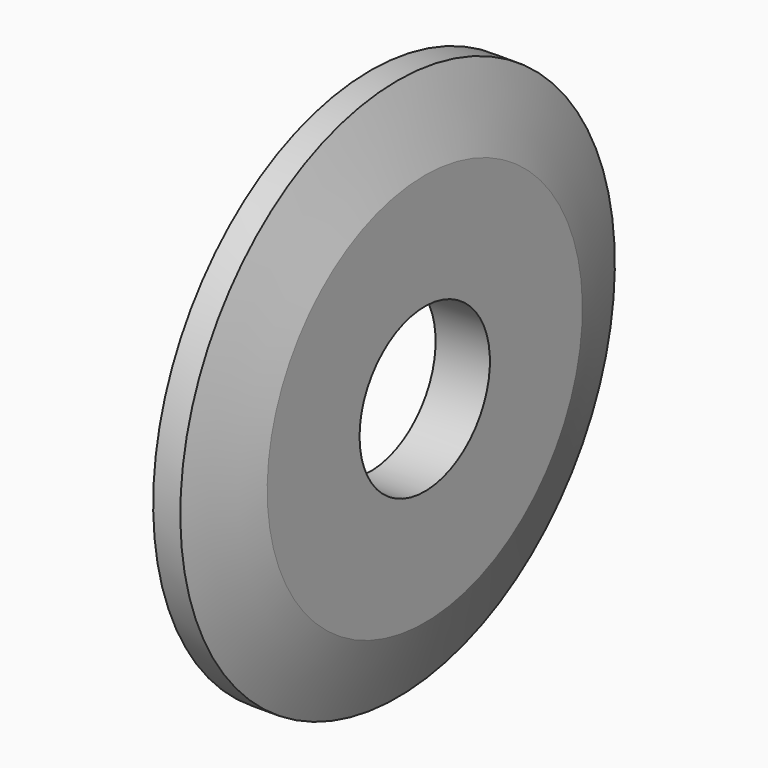
from build123d import *

# Parameters (mm, degrees)
F2_R     = 9.525
F3_DEPTH = 6.351


with BuildPart() as f1:
    # F0 (on Front) → F1 (revolve)
    with BuildSketch(Plane.XZ):
        Polygon((0, 31.75), (0, 0), (6.35, 0), (6.35, 23.026759), (3.175, 31.75), align=None)
    revolve(axis=Axis((3.175, 0, 0), (-1, 0, 0)))

    # F2 (on face) → F3 (cut, through all)
    with BuildSketch(Plane(origin=(0, 0, 0), x_dir=(0, -1, 0), z_dir=(-1, 0, 0))):
        Circle(F2_R)
    extrude(amount=-F3_DEPTH, mode=Mode.SUBTRACT)


solid = f1.part
